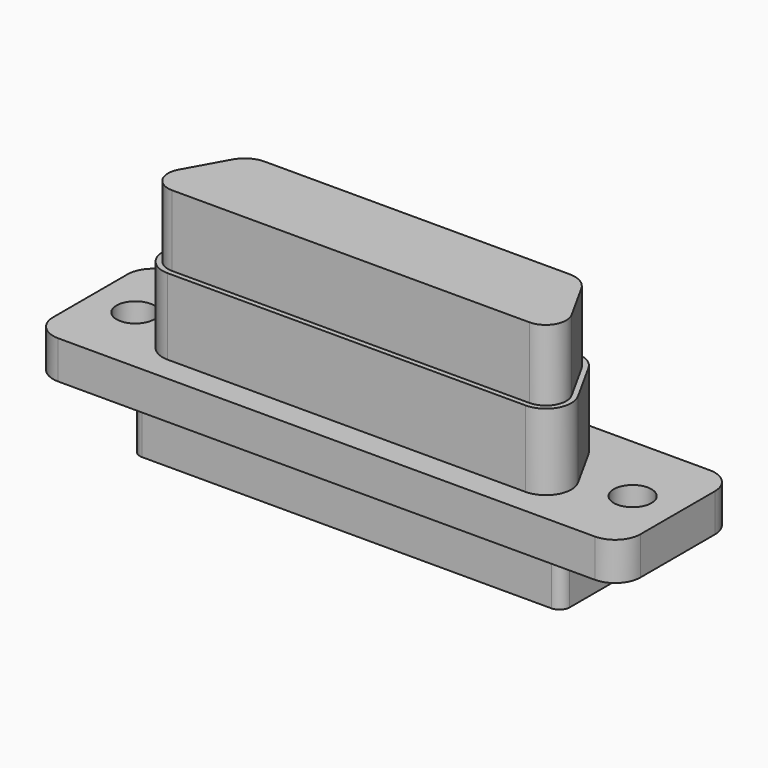
from build123d import *

# Parameters (mm, degrees)
F0_R     = 1.1684
F1_DEPTH = 1.1811
F3_DEPTH = 4.7244
F5_DEPTH = 3.4798
F7_DEPTH = 4.4069


with BuildPart() as f1:
    # F0 (on Top) → F1 (new body, symmetric)
    with BuildSketch(Plane.XY):
        with BuildLine():
            Line((16.6497, 4.4577), (-16.6497, 4.4577))
            ThreePointArc((-16.6497, 4.4577), (-17.763252, 3.996452), (-18.2245, 2.8829))
            Line((-18.2245, 2.8829), (-18.2245, -2.8829))
            ThreePointArc((-18.2245, -2.8829), (-17.763252, -3.996452), (-16.6497, -4.4577))
            Line((-16.6497, -4.4577), (16.6497, -4.4577))
            ThreePointArc((16.6497, -4.4577), (17.763252, -3.996452), (18.2245, -2.8829))
            Line((18.2245, -2.8829), (18.2245, 2.8829))
            ThreePointArc((18.2245, 2.8829), (17.763252, 3.996452), (16.6497, 4.4577))
        make_face()
        with Locations((-15.4305, 0)):
            Circle(F0_R, mode=Mode.SUBTRACT)
        with Locations((15.4305, 0)):
            Circle(F0_R, mode=Mode.SUBTRACT)
    extrude(amount=F1_DEPTH, both=True)

    # F2 (on face) → F3 (join)
    with BuildSketch(Plane.XY.offset(1.1811)):
        with BuildLine():
            Line((-11.10602, -2.8956), (11.107478, -2.8956))
            ThreePointArc((11.107478, -2.8956), (12.464371, -2.120071), (12.484829, -0.557322))
            Line((12.484829, -0.557322), (11.020566, 2.084278))
            ThreePointArc((11.020566, 2.084278), (10.442486, 2.677694), (9.643215, 2.8956))
            Line((9.643215, 2.8956), (-9.641757, 2.8956))
            ThreePointArc((-9.641757, 2.8956), (-10.441029, 2.677694), (-11.019108, 2.084278))
            Line((-11.019108, 2.084278), (-12.483371, -0.557322))
            ThreePointArc((-12.483371, -0.557322), (-12.462914, -2.120071), (-11.10602, -2.8956))
        make_face()
    extrude(amount=F3_DEPTH)

    # F4 (on face) → F5 (join)
    with BuildSketch(Plane(origin=(0, 0, -1.1811), x_dir=(1, 0, 0), z_dir=(0, 0, -1))):
        with BuildLine():
            Line((12.7, 2.8956), (-12.7, 2.8956))
            ThreePointArc((-12.7, 2.8956), (-13.149013, 2.709613), (-13.335, 2.2606))
            Line((-13.335, 2.2606), (-13.335, -2.2606))
            ThreePointArc((-13.335, -2.2606), (-13.149013, -2.709613), (-12.7, -2.8956))
            Line((-12.7, -2.8956), (12.7, -2.8956))
            ThreePointArc((12.7, -2.8956), (13.149013, -2.709613), (13.335, -2.2606))
            Line((13.335, -2.2606), (13.335, 2.2606))
            ThreePointArc((13.335, 2.2606), (13.149013, 2.709613), (12.7, 2.8956))
        make_face()
    extrude(amount=F5_DEPTH)

    # F6 (on face) → F7 (join)
    with BuildSketch(Plane.XY.offset(5.9055)):
        with BuildLine():
            Line((9.456193, 2.5781), (-9.454736, 2.5781))
            ThreePointArc((-9.454736, 2.5781), (-10.254007, 2.360194), (-10.832087, 1.766778))
            Line((-10.832087, 1.766778), (-12.195227, -0.692392))
            ThreePointArc((-12.195227, -0.692392), (-12.178729, -1.952674), (-11.08446, -2.5781))
            Line((-11.08446, -2.5781), (11.085917, -2.5781))
            ThreePointArc((11.085917, -2.5781), (12.180186, -1.952674), (12.196684, -0.692392))
            Line((12.196684, -0.692392), (10.833544, 1.766778))
            ThreePointArc((10.833544, 1.766778), (10.255464, 2.360194), (9.456193, 2.5781))
        make_face()
    extrude(amount=F7_DEPTH)


solid = f1.part
